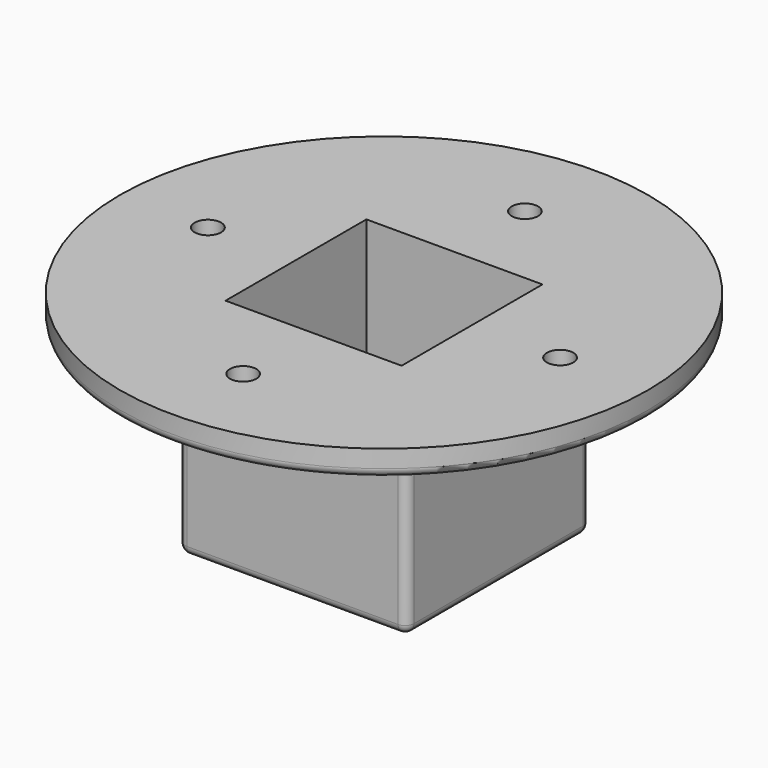
from build123d import *

# Parameters (mm, degrees)
F0_R     = 30
F0_W     = 26
F0_H     = 26
F1_DEPTH = 3
F0_W_2   = 20
F0_H_2   = 20
F2_DEPTH = 25
F3_R     = 1
F5_D     = 3


with BuildPart() as f1:
    # F0 (on Top) → F1 (new body)
    with BuildSketch(Plane.XY):
        with Locations((10, 10)):
            Circle(F0_R)
        with Locations((10, 10)):
            Rectangle(F0_W, F0_H, mode=Mode.SUBTRACT)
    extrude(amount=-F1_DEPTH)

    # F0 (on Top) → F2 (join)
    with BuildSketch(Plane.XY):
        with Locations((10, 10)):
            Rectangle(F0_W, F0_H)
        with Locations((10, 10)):
            Rectangle(F0_W_2, F0_H_2, mode=Mode.SUBTRACT)
    extrude(amount=-F2_DEPTH)

    # F3
    f3_edges = [f1.edges().sort_by_distance(p)[0] for p in [
        (-20, 10, -3),
        (10, -3, -3),
        (-3, 10, -3),
        (10, 23, -3),
        (23, 10, -3),
        (-3, 23, -14),
        (10, 23, -25),
        (23, 23, -14),
        (23, 10, -25),
        (23, -3, -14),
        (10, -3, -25),
        (-3, -3, -14),
        (-3, 10, -25),
    ]]
    fillet(f3_edges, radius=F3_R)

    # F5 (through all)
    with Locations(Plane.XY):
        with Locations((10, 30), (30, 10), (10, -10), (-10, 10)):
            Hole(F5_D / 2)


solid = f1.part
